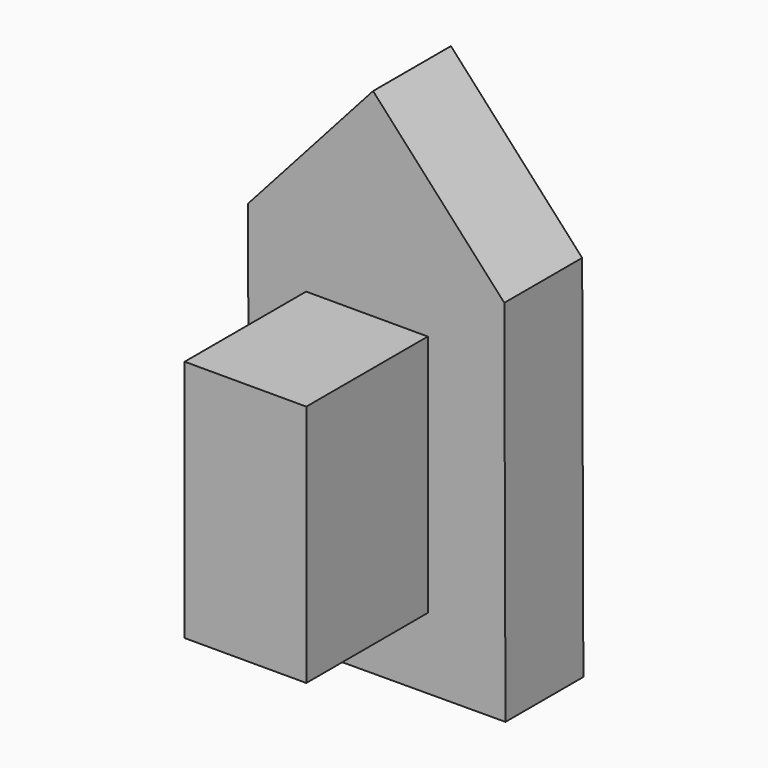
from build123d import *

# Parameters (mm, degrees)
F1_DEPTH = 25.4
F2_W     = 31.75
F2_H     = 63.5
F3_DEPTH = 39.624


with BuildPart() as f1:
    # F0 (on Front) → F1 (new body)
    with BuildSketch(Plane.XZ):
        Polygon((-32.678649, 41.369968), (-32.216675, -56.016259), (34.556333, -55.800427), (34.245424, 40.38674), (0, 77.908613), align=None)
    extrude(amount=F1_DEPTH)

    # F2 (on face) → F3 (join)
    with BuildSketch(Plane.XZ.offset(25.4)):
        with Locations((-1.600679, -5.599995)):
            Rectangle(F2_W, F2_H)
    extrude(amount=F3_DEPTH)


solid = f1.part
